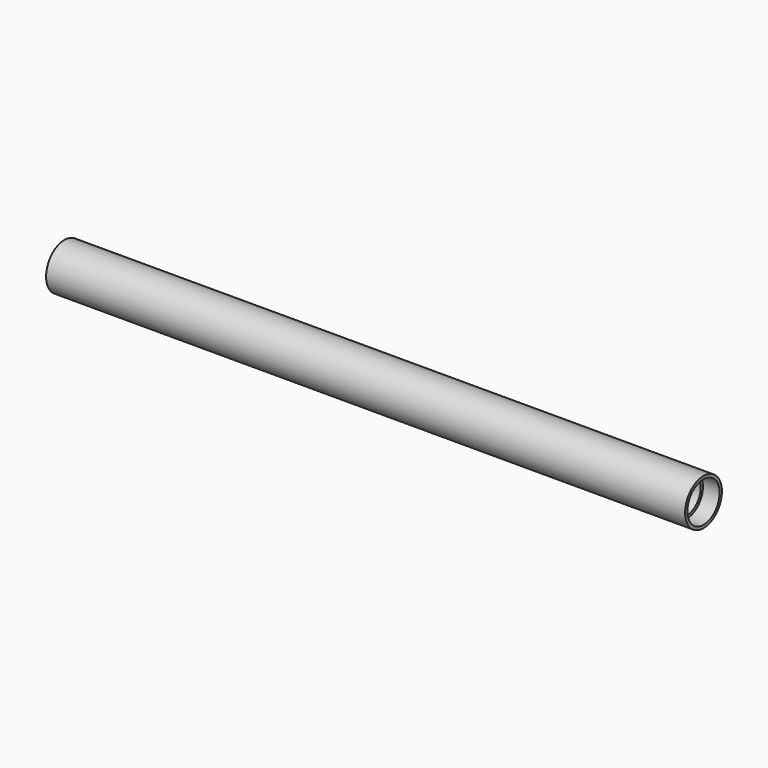
from build123d import *


with BuildPart() as part:
    # Sketch → Revolution (revolve)
    with BuildSketch(Plane.XZ):
        Polygon((-111, 8), (111, 8), (111, 7), (105.2, 7), (105.2, 6), (-105.4, 6), (-105.4, 7), (-111, 7), align=None)
    revolve(axis=Axis((0, 0, 0), (1, 0, 0)))


solid = part.part
